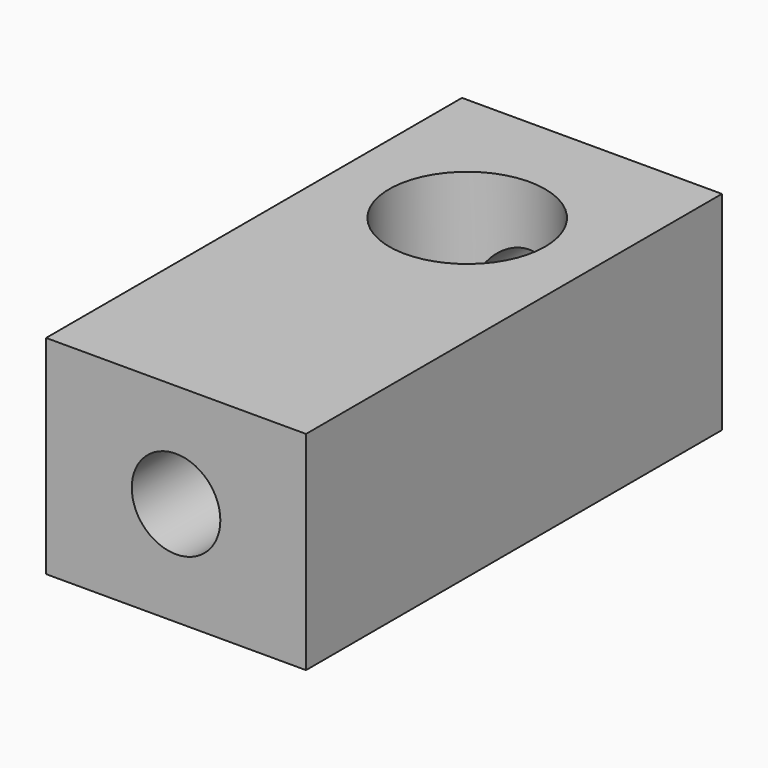
from build123d import *

# Parameters (mm, degrees)
F0_W     = 15.875
F0_H     = 31.75
F1_DEPTH = 12.7
F2_R     = 4.7625
F3_DEPTH = 12.7
F4_R     = 2.7051
F5_DEPTH = 31.75


with BuildPart() as f1:
    # F0 (on Top) → F1 (new body)
    with BuildSketch(Plane.XY):
        with Locations((7.9375, 15.875)):
            Rectangle(F0_W, F0_H)
    extrude(amount=F1_DEPTH)

    # F2 (on face) → F3 (cut, through all)
    with BuildSketch(Plane.XY.offset(12.7)):
        with Locations((7.9375, 22.225)):
            Circle(F2_R)
    extrude(amount=-F3_DEPTH, mode=Mode.SUBTRACT)

    # F4 (on face) → F5 (cut, through all)
    with BuildSketch(Plane.XZ):
        with Locations((7.9375, 6.35)):
            Circle(F4_R)
    extrude(amount=-F5_DEPTH, mode=Mode.SUBTRACT)


solid = f1.part
